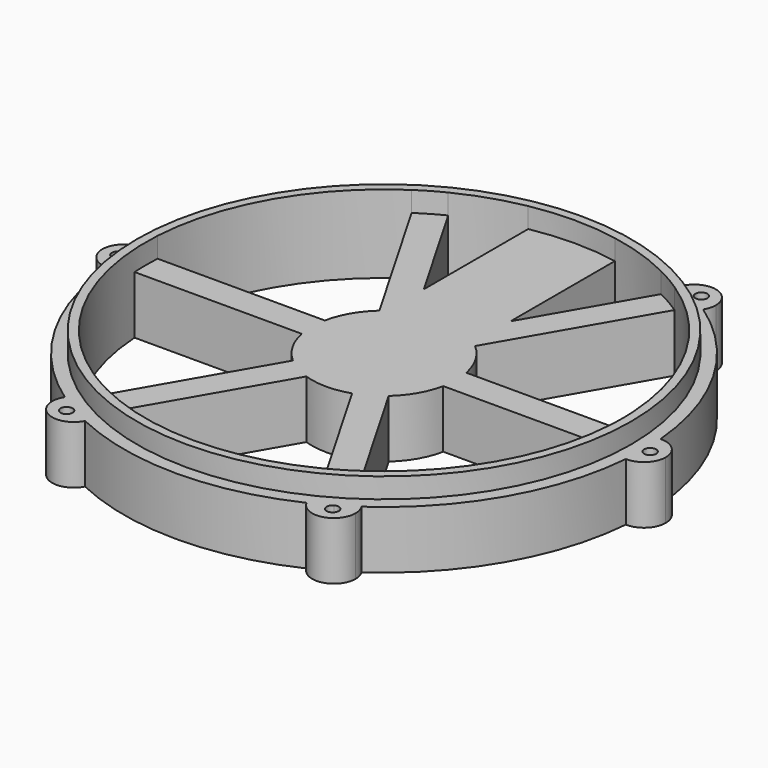
from build123d import *

# Parameters (mm, degrees)
F0_R     = 2.1
F1_DEPTH = 20
F2_R     = 85.5
F3_DEPTH = 7


with BuildPart() as f1:
    # F0 (on Top) → F1 (new body)
    with BuildSketch(Plane.XY):
        with BuildLine():
            ThreePointArc((-41.2500001071, 71.4470957504), (-46.7897627263, 70.6589663982), (-51.3332998929, 73.9249100243))
            ThreePointArc((-51.3332998929, 73.9249100243), (-77.9422863406, 45), (-89.6875, 7.4934867552))
            ThreePointArc((-89.6875, 7.4934867552), (-84.5873412263, 5.1916399143), (-82.5, 0))
            ThreePointArc((-82.5, 0), (-82.4620776492, 2.5011496906), (-82.34834546, 5))
            ThreePointArc((-82.34834546, 5), (-71.4470958122, 41.25), (-45.5042997489, 68.815759128))
            ThreePointArc((-45.5042997489, 68.815759128), (-43.3970980479, 70.1636792152), (-41.2500001071, 71.4470957504))
        make_face()
        with BuildLine():
            ThreePointArc((-37.5, 77.9422863406), (-37.7166800428, 79.7320490069), (-38.3542001071, 81.4183967795))
            ThreePointArc((-38.3542001071, 81.4183967795), (-41.7133252765, 79.7495987098), (-45.0000000188, 77.9422863298))
            ThreePointArc((-45.0000000188, 77.9422863298), (-48.2085158044, 75.999598709), (-51.3332998929, 73.9249100243))
            ThreePointArc((-51.3332998929, 73.9249100243), (-46.7897627263, 70.6589663982), (-41.2500001071, 71.4470957504))
            ThreePointArc((-41.2500001071, 71.4470957504), (-38.5048095025, 74.1922862871), (-37.5, 77.9422863406))
        make_face()
        with BuildLine():
            ThreePointArc((-45.0000000188, 77.9422863298), (-41.7133252765, 79.7495987098), (-38.3542001071, 81.4183967795))
            ThreePointArc((-38.3542001071, 81.4183967795), (-48.75, 84.437476869), (-51.3332998929, 73.9249100243))
            ThreePointArc((-51.3332998929, 73.9249100243), (-48.2085158044, 75.999598709), (-45.0000000188, 77.9422863298))
        make_face()
        with BuildLine():
            ThreePointArc((-43.95, 79.7609396885), (-44.2313466575, 78.7109396792), (-45.0000000188, 77.9422863298))
            ThreePointArc((-45.0000000188, 77.9422863298), (-47.8686533425, 80.8109396979), (-43.95, 79.7609396885))
        make_face(mode=Mode.SUBTRACT)
        with BuildLine():
            Line((-15, 81.1249036979), (-15, 88.7411967465))
            ThreePointArc((-15, 88.7411967465), (-26.9271891795, 85.8773921524), (-38.3542001071, 81.4183967795))
            ThreePointArc((-38.3542001071, 81.4183967795), (-37.7166800428, 79.7320490069), (-37.5, 77.9422863406))
            ThreePointArc((-37.5, 77.9422863406), (-38.5048095025, 74.1922862871), (-41.2500001071, 71.4470957504))
            ThreePointArc((-41.2500001071, 71.4470957504), (-39.0649797083, 72.6648289091), (-36.8440457111, 73.815759128))
            ThreePointArc((-36.8440457111, 73.815759128), (-26.1783721325, 78.2364546263), (-15, 81.1249036979))
        make_face()
        with BuildLine():
            Line((15, 81.1249036979), (15, 88.7411967465))
            ThreePointArc((15, 88.7411967465), (0, 90), (-15, 88.7411967465))
            Line((-15, 88.7411967465), (-15, 81.1249036979))
            ThreePointArc((-15, 81.1249036979), (0, 82.5), (15, 81.1249036979))
        make_face()
        with BuildLine():
            ThreePointArc((-15, 88.7411967465), (0, 90), (15, 88.7411967465))
            Line((15, 88.7411967465), (15, 92.22432971))
            Line((15, 92.22432971), (-15, 92.22432971))
            Line((-15, 92.22432971), (-15, 88.7411967465))
        make_face()
        with BuildLine():
            ThreePointArc((36.8440457111, 73.815759128), (39.0649794612, 72.664829042), (41.2499996211, 71.447096031))
            ThreePointArc((41.2499996211, 71.447096031), (37.7975784991, 75.8506065078), (38.3542001071, 81.4183967795))
            ThreePointArc((38.3542001071, 81.4183967795), (26.9271891795, 85.8773921524), (15, 88.7411967465))
            Line((15, 88.7411967465), (15, 81.1249036979))
            ThreePointArc((15, 81.1249036979), (26.1783721325, 78.2364546263), (36.8440457111, 73.815759128))
        make_face()
        with BuildLine():
            ThreePointArc((41.2499996211, 71.447096031), (46.7897624538, 70.6589663312), (51.3332998929, 73.9249100243))
            ThreePointArc((51.3332998929, 73.9249100243), (48.2085157624, 75.9995987357), (44.9999999326, 77.9422863795))
            ThreePointArc((44.9999999326, 77.9422863795), (41.7133252324, 79.7495987329), (38.3542001071, 81.4183967795))
            ThreePointArc((38.3542001071, 81.4183967795), (37.7975784991, 75.8506065078), (41.2499996211, 71.447096031))
        make_face()
        with BuildLine():
            ThreePointArc((44.9999999326, 77.9422863795), (48.2085157624, 75.9995987357), (51.3332998929, 73.9249100243))
            ThreePointArc((51.3332998929, 73.9249100243), (52.2024214399, 75.8506062978), (52.5, 77.9422863406))
            ThreePointArc((52.5, 77.9422863406), (46.7897626663, 85.2256062978), (38.3542001071, 81.4183967795))
            ThreePointArc((38.3542001071, 81.4183967795), (41.7133252324, 79.7495987329), (44.9999999326, 77.9422863795))
        make_face()
        with BuildLine():
            ThreePointArc((48.15, 79.7609396885), (47.0999999663, 77.9422863211), (44.9999999326, 77.9422863795))
            ThreePointArc((44.9999999326, 77.9422863795), (45.0000000337, 81.5795930559), (48.15, 79.7609396885))
        make_face(mode=Mode.SUBTRACT)
        with BuildLine():
            ThreePointArc((82.5, 0), (84.5873412263, 5.1916399143), (89.6875, 7.4934867552))
            ThreePointArc((89.6875, 7.4934867552), (77.9422863406, 45), (51.3332998929, 73.9249100243))
            ThreePointArc((51.3332998929, 73.9249100243), (46.7897624538, 70.6589663312), (41.2499996211, 71.447096031))
            ThreePointArc((41.2499996211, 71.447096031), (43.3970978093, 70.1636793628), (45.5042997489, 68.815759128))
            ThreePointArc((45.5042997489, 68.815759128), (71.4470958122, 41.25), (82.34834546, 5))
            ThreePointArc((82.34834546, 5), (82.4620776492, 2.5011496906), (82.5, 0))
        make_face()
        with BuildLine():
            ThreePointArc((89.6875, -7.4934867552), (89.9218410621, -3.75), (90, 0))
            ThreePointArc((90, 0), (89.9218410621, 3.75), (89.6875, 7.4934867552))
            ThreePointArc((89.6875, 7.4934867552), (84.5873412263, 5.1916399143), (82.5, 0))
            ThreePointArc((82.5, 0), (84.5873412263, -5.1916399143), (89.6875, -7.4934867552))
        make_face()
        with BuildLine():
            ThreePointArc((89.6875, 7.4934867552), (89.9218410621, 3.75), (90, 0))
            ThreePointArc((90, 0), (89.9218410621, -3.75), (89.6875, -7.4934867552))
            ThreePointArc((89.6875, -7.4934867552), (95.1916399143, -5.4126587737), (97.5, 0))
            ThreePointArc((97.5, 0), (95.1916399143, 5.4126587737), (89.6875, 7.4934867552))
        make_face()
        with BuildLine():
            ThreePointArc((94.2, 0), (92.1, -2.1), (90, 0))
            ThreePointArc((90, 0), (92.1, 2.1), (94.2, 0))
        make_face(mode=Mode.SUBTRACT)
        with BuildLine():
            ThreePointArc((51.3332998929, -73.9249100243), (77.9422863406, -45), (89.6875, -7.4934867552))
            ThreePointArc((89.6875, -7.4934867552), (84.5873412263, -5.1916399143), (82.5, 0))
            ThreePointArc((82.5, 0), (82.4620776492, -2.5011496906), (82.34834546, -5))
            ThreePointArc((82.34834546, -5), (71.4470958122, -41.25), (45.5042997489, -68.815759128))
            ThreePointArc((45.5042997489, -68.815759128), (43.3970980171, -70.1636792343), (41.2500000443, -71.4470957866))
            ThreePointArc((41.2500000443, -71.4470957866), (46.7897626911, -70.6589663895), (51.3332998929, -73.9249100243))
        make_face()
        with BuildLine():
            ThreePointArc((38.3542001071, -81.4183967795), (37.7975785672, -75.8506062732), (41.2500000443, -71.4470957866))
            ThreePointArc((41.2500000443, -71.4470957866), (39.0649796764, -72.6648289263), (36.8440457111, -73.815759128))
            ThreePointArc((36.8440457111, -73.815759128), (0, -82.5), (-36.8440457111, -73.815759128))
            ThreePointArc((-36.8440457111, -73.815759128), (-39.0649795946, -72.6648289702), (-41.2499998835, -71.4470958795))
            ThreePointArc((-41.2499998835, -71.4470958795), (-38.504809438, -74.1922863989), (-37.5, -77.9422863406))
            ThreePointArc((-37.5, -77.9422863406), (-37.7166800428, -79.7320490069), (-38.3542001071, -81.4183967795))
            ThreePointArc((-38.3542001071, -81.4183967795), (0, -90), (38.3542001071, -81.4183967795))
        make_face()
        with BuildLine():
            ThreePointArc((44.9999998533, -77.9422864253), (48.2085157237, -75.9995987602), (51.3332998929, -73.9249100243))
            ThreePointArc((51.3332998929, -73.9249100243), (46.7897626911, -70.6589663895), (41.2500000443, -71.4470957866))
            ThreePointArc((41.2500000443, -71.4470957866), (37.7975785672, -75.8506062732), (38.3542001071, -81.4183967795))
            ThreePointArc((38.3542001071, -81.4183967795), (41.7133251918, -79.7495987541), (44.9999998533, -77.9422864253))
        make_face()
        with BuildLine():
            ThreePointArc((52.5, -77.9422863406), (52.2024214399, -75.8506062978), (51.3332998929, -73.9249100243))
            ThreePointArc((51.3332998929, -73.9249100243), (48.2085157237, -75.9995987602), (44.9999998533, -77.9422864253))
            ThreePointArc((44.9999998533, -77.9422864253), (41.7133251918, -79.7495987541), (38.3542001071, -81.4183967795))
            ThreePointArc((38.3542001071, -81.4183967795), (46.7897626663, -85.2256062978), (52.5, -77.9422863406))
        make_face()
        with BuildLine():
            ThreePointArc((48.15, -79.7609396885), (45.0000000733, -81.5795930788), (44.9999998533, -77.9422864253))
            ThreePointArc((44.9999998533, -77.9422864253), (47.0999999267, -77.9422862983), (48.15, -79.7609396885))
        make_face(mode=Mode.SUBTRACT)
        with BuildLine():
            ThreePointArc((-44.99999973, -77.9422864965), (-41.7133251287, -79.7495987871), (-38.3542001071, -81.4183967795))
            ThreePointArc((-38.3542001071, -81.4183967795), (-37.7166800428, -79.7320490069), (-37.5, -77.9422863406))
            ThreePointArc((-37.5, -77.9422863406), (-38.504809438, -74.1922863989), (-41.2499998835, -71.4470958795))
            ThreePointArc((-41.2499998835, -71.4470958795), (-46.7897626009, -70.6589663674), (-51.3332998929, -73.9249100243))
            ThreePointArc((-51.3332998929, -73.9249100243), (-48.2085156636, -75.9995987984), (-44.99999973, -77.9422864965))
        make_face()
        with BuildLine():
            ThreePointArc((-51.3332998929, -73.9249100243), (-48.75, -84.437476869), (-38.3542001071, -81.4183967795))
            ThreePointArc((-38.3542001071, -81.4183967795), (-41.7133251287, -79.7495987871), (-44.99999973, -77.9422864965))
            ThreePointArc((-44.99999973, -77.9422864965), (-48.2085156636, -75.9995987984), (-51.3332998929, -73.9249100243))
        make_face()
        with BuildLine():
            ThreePointArc((-43.95, -79.7609396885), (-47.8686534259, -80.8109395535), (-44.99999973, -77.9422864965))
            ThreePointArc((-44.99999973, -77.9422864965), (-44.2313465741, -78.7109398236), (-43.95, -79.7609396885))
        make_face(mode=Mode.SUBTRACT)
        with BuildLine():
            ThreePointArc((-89.6875, -7.4934867552), (-77.9422863406, -45), (-51.3332998929, -73.9249100243))
            ThreePointArc((-51.3332998929, -73.9249100243), (-46.7897626009, -70.6589663674), (-41.2499998835, -71.4470958795))
            ThreePointArc((-41.2499998835, -71.4470958795), (-43.3970979381, -70.1636792831), (-45.5042997489, -68.815759128))
            ThreePointArc((-45.5042997489, -68.815759128), (-71.4470958122, -41.25), (-82.34834546, -5))
            ThreePointArc((-82.34834546, -5), (-82.4620776492, -2.5011496906), (-82.5, 0))
            ThreePointArc((-82.5, 0), (-84.5873412263, -5.1916399143), (-89.6875, -7.4934867552))
        make_face()
        with BuildLine():
            ThreePointArc((-90, 0), (-89.9218410621, -3.75), (-89.6875, -7.4934867552))
            ThreePointArc((-89.6875, -7.4934867552), (-84.5873412263, -5.1916399143), (-82.5, 0))
            ThreePointArc((-82.5, 0), (-84.5873412263, 5.1916399143), (-89.6875, 7.4934867552))
            ThreePointArc((-89.6875, 7.4934867552), (-89.9218410621, 3.75), (-90, 0))
        make_face()
        with BuildLine():
            ThreePointArc((-89.6875, 7.4934867552), (-97.5, 0), (-89.6875, -7.4934867552))
            ThreePointArc((-89.6875, -7.4934867552), (-89.9218410621, -3.75), (-90, 0))
            ThreePointArc((-90, 0), (-89.9218410621, 3.75), (-89.6875, 7.4934867552))
        make_face()
        with Locations((-92.1, 0)):
            Circle(F0_R, mode=Mode.SUBTRACT)
        with BuildLine():
            ThreePointArc((-82.34834546, 5), (-82.4620776492, 2.5011496906), (-82.5, 0))
            ThreePointArc((-82.5, 0), (-82.4620776492, -2.5011496906), (-82.34834546, -5))
            Line((-82.34834546, -5), (-24.4948974278, -5))
            ThreePointArc((-24.4948974278, -5), (-25, 0), (-24.4948974278, 5))
            Line((-24.4948974278, 5), (-82.34834546, 5))
        make_face()
        with BuildLine():
            ThreePointArc((-41.2499998835, -71.4470958795), (-39.0649795946, -72.6648289702), (-36.8440457111, -73.815759128))
            Line((-36.8440457111, -73.815759128), (-7.917321695, -23.7132034356))
            ThreePointArc((-7.917321695, -23.7132034356), (-12.5, -21.6506350946), (-16.5775757328, -18.7132034356))
            Line((-16.5775757328, -18.7132034356), (-45.5042997489, -68.815759128))
            ThreePointArc((-45.5042997489, -68.815759128), (-43.3970979381, -70.1636792831), (-41.2499998835, -71.4470958795))
        make_face()
        with BuildLine():
            ThreePointArc((36.8440457111, -73.815759128), (39.0649796764, -72.6648289263), (41.2500000443, -71.4470957866))
            ThreePointArc((41.2500000443, -71.4470957866), (43.3970980171, -70.1636792343), (45.5042997489, -68.815759128))
            Line((45.5042997489, -68.815759128), (16.5775757328, -18.7132034356))
            ThreePointArc((16.5775757328, -18.7132034356), (12.5, -21.6506350946), (7.917321695, -23.7132034356))
            Line((7.917321695, -23.7132034356), (36.8440457111, -73.815759128))
        make_face()
        with BuildLine():
            ThreePointArc((82.34834546, -5), (82.4620776492, -2.5011496906), (82.5, 0))
            ThreePointArc((82.5, 0), (82.4620776492, 2.5011496906), (82.34834546, 5))
            Line((82.34834546, 5), (24.4948974278, 5))
            ThreePointArc((24.4948974278, 5), (24.8734038251, 2.5127240501), (25, 0))
            ThreePointArc((25, 0), (24.8734038251, -2.5127240501), (24.4948974278, -5))
            Line((24.4948974278, -5), (82.34834546, -5))
        make_face()
        with BuildLine():
            ThreePointArc((45.5042997489, 68.815759128), (43.3970978093, 70.1636793628), (41.2499996211, 71.447096031))
            ThreePointArc((41.2499996211, 71.447096031), (39.0649794612, 72.664829042), (36.8440457111, 73.815759128))
            Line((36.8440457111, 73.815759128), (15, 35.9807621135))
            Line((15, 35.9807621135), (7.917321695, 23.7132034356))
            ThreePointArc((7.917321695, 23.7132034356), (12.5, 21.6506350946), (16.5775757328, 18.7132034356))
            Line((16.5775757328, 18.7132034356), (45.5042997489, 68.815759128))
        make_face()
        with BuildLine():
            ThreePointArc((-16.5775757328, 18.7132034356), (-12.5, 21.6506350946), (-7.917321695, 23.7132034356))
            Line((-7.917321695, 23.7132034356), (-15, 35.9807621135))
            Line((-15, 35.9807621135), (-36.8440457111, 73.815759128))
            ThreePointArc((-36.8440457111, 73.815759128), (-39.0649797083, 72.6648289091), (-41.2500001071, 71.4470957504))
            ThreePointArc((-41.2500001071, 71.4470957504), (-43.3970980479, 70.1636792152), (-45.5042997489, 68.815759128))
            Line((-45.5042997489, 68.815759128), (-16.5775757328, 18.7132034356))
        make_face()
        with BuildLine():
            ThreePointArc((25, 0), (24.8734038251, 2.5127240501), (24.4948974278, 5))
            ThreePointArc((24.4948974278, 5), (21.6506350946, 12.5), (16.5775757328, 18.7132034356))
            ThreePointArc((16.5775757328, 18.7132034356), (12.5, 21.6506350946), (7.917321695, 23.7132034356))
            ThreePointArc((7.917321695, 23.7132034356), (0, 25), (-7.917321695, 23.7132034356))
            ThreePointArc((-7.917321695, 23.7132034356), (-12.5, 21.6506350946), (-16.5775757328, 18.7132034356))
            ThreePointArc((-16.5775757328, 18.7132034356), (-21.6506350946, 12.5), (-24.4948974278, 5))
            ThreePointArc((-24.4948974278, 5), (-25, 0), (-24.4948974278, -5))
            ThreePointArc((-24.4948974278, -5), (-21.6506350946, -12.5), (-16.5775757328, -18.7132034356))
            ThreePointArc((-16.5775757328, -18.7132034356), (-12.5, -21.6506350946), (-7.917321695, -23.7132034356))
            ThreePointArc((-7.917321695, -23.7132034356), (0, -25), (7.917321695, -23.7132034356))
            ThreePointArc((7.917321695, -23.7132034356), (12.5, -21.6506350946), (16.5775757328, -18.7132034356))
            ThreePointArc((16.5775757328, -18.7132034356), (21.6506350946, -12.5), (24.4948974278, -5))
            ThreePointArc((24.4948974278, -5), (24.8734038251, -2.5127240501), (25, 0))
        make_face()
        with BuildLine():
            Line((15, 35.9807621135), (15, 81.1249036979))
            ThreePointArc((15, 81.1249036979), (0, 82.5), (-15, 81.1249036979))
            Line((-15, 81.1249036979), (-15, 35.9807621135))
            Line((-15, 35.9807621135), (-7.917321695, 23.7132034356))
            ThreePointArc((-7.917321695, 23.7132034356), (0, 25), (7.917321695, 23.7132034356))
            Line((7.917321695, 23.7132034356), (15, 35.9807621135))
        make_face()
    extrude(amount=F1_DEPTH)

    # F2 (on face) → F3 (join)
    with BuildSketch(Plane.XY.offset(20)):
        Circle(F2_R)
        with BuildLine():
            ThreePointArc((82.34834546, 5), (82.4620776492, 2.5011496906), (82.5, 0))
            ThreePointArc((82.5, 0), (82.4620776492, -2.5011496906), (82.34834546, -5))
            ThreePointArc((82.34834546, -5), (71.4470958122, -41.25), (45.5042997489, -68.815759128))
            ThreePointArc((45.5042997489, -68.815759128), (41.25, -71.4470958122), (36.8440457111, -73.815759128))
            ThreePointArc((36.8440457111, -73.815759128), (0, -82.5), (-36.8440457111, -73.815759128))
            ThreePointArc((-36.8440457111, -73.815759128), (-41.25, -71.4470958122), (-45.5042997489, -68.815759128))
            ThreePointArc((-45.5042997489, -68.815759128), (-71.4470958122, -41.25), (-82.34834546, -5))
            ThreePointArc((-82.34834546, -5), (-82.5, 0), (-82.34834546, 5))
            ThreePointArc((-82.34834546, 5), (-71.4470958122, 41.25), (-45.5042997489, 68.815759128))
            ThreePointArc((-45.5042997489, 68.815759128), (-41.25, 71.4470958122), (-36.8440457111, 73.815759128))
            ThreePointArc((-36.8440457111, 73.815759128), (-26.1783721325, 78.2364546263), (-15, 81.1249036979))
            ThreePointArc((-15, 81.1249036979), (0, 82.5), (15, 81.1249036979))
            ThreePointArc((15, 81.1249036979), (26.1783721325, 78.2364546263), (36.8440457111, 73.815759128))
            ThreePointArc((36.8440457111, 73.815759128), (41.25, 71.4470958122), (45.5042997489, 68.815759128))
            ThreePointArc((45.5042997489, 68.815759128), (71.4470958122, 41.25), (82.34834546, 5))
        make_face(mode=Mode.SUBTRACT)
    extrude(amount=F3_DEPTH)


solid = f1.part
